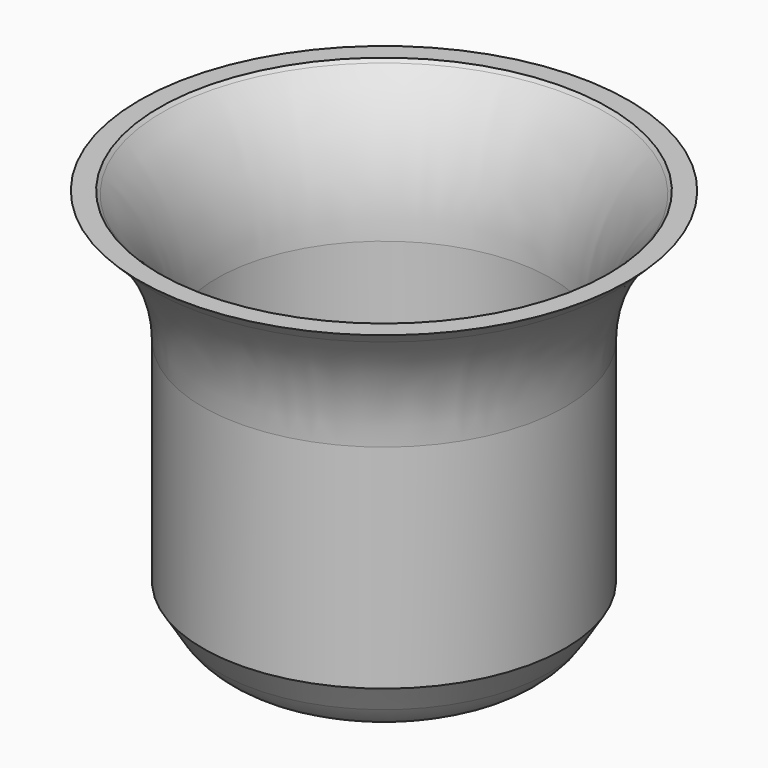
from build123d import *

# Parameters (mm, degrees)
F2_T = -2.54


with BuildPart() as f1:
    # F0 (on Front) → F1 (revolve)
    with BuildSketch(Plane.XZ):
        with BuildLine():
            Line((45.068022, 35.512462), (0, 35.512462))
            Line((0, 35.512462), (0, -38.935348))
            Line((0, -38.935348), (19.45281, -38.935348))
            ThreePointArc((19.45281, -38.935348), (25.620212, -37.337292), (30.23551, -32.945294))
            Line((30.23551, -32.945294), (33.373158, -27.903179))
            Line((33.373158, -27.903179), (33.373158, 11.267005))
            ThreePointArc((33.373158, 11.267005), (35.7786, 23.135011), (42.615256, 33.129802))
            Line((42.615256, 33.129802), (45.068022, 35.512462))
        make_face()
    revolve(axis=Axis((0, 0, -1.711443), (0, 0, 1)))

    # F2
    f2_openings = [f1.faces().sort_by_distance(p)[0] for p in [
        (0, 0, 35.512462),
    ]]
    offset(amount=F2_T, openings=f2_openings)


solid = f1.part
